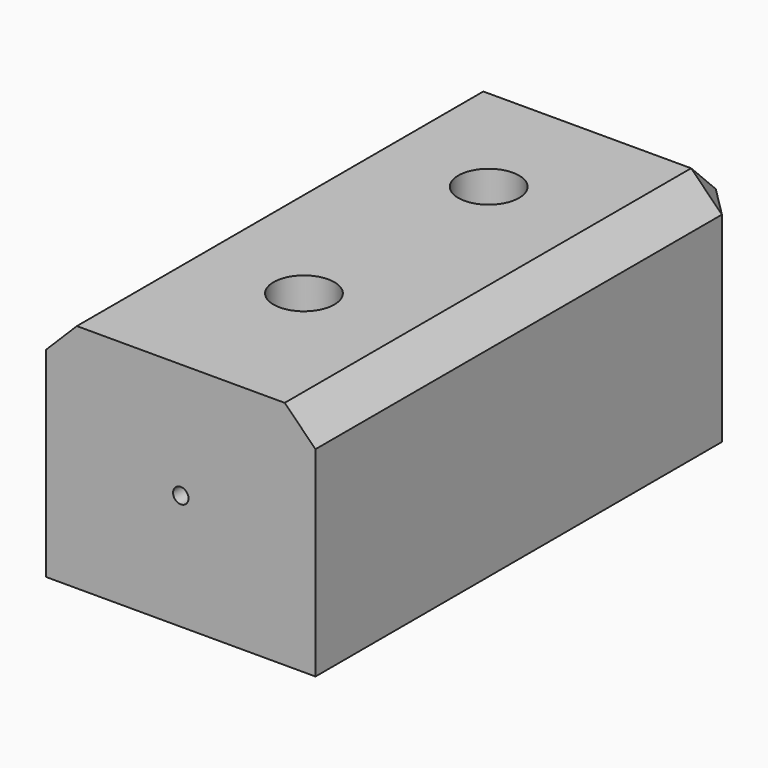
from build123d import *

# Parameters (mm, degrees)
F0_W     = 35
F0_H     = 70
F0_R     = 3.95
F1_DEPTH = 30
F2_SIZE  = 4
F3_R     = 1
F4_DEPTH = 25


with BuildPart() as f1:
    # F0 (on Top) → F1 (new body)
    with BuildSketch(Plane.XY):
        Rectangle(F0_W, F0_H)
        with Locations((0, -15)):
            Circle(F0_R, mode=Mode.SUBTRACT)
        with Locations((0, 15)):
            Circle(F0_R, mode=Mode.SUBTRACT)
    extrude(amount=F1_DEPTH)

    # F2
    f2_edges = [f1.edges().sort_by_distance(p)[0] for p in [
        (0, 35, 30),
        (17.5, 0, 30),
        (-17.5, 0, 30),
        (17.5, 35, 15),
        (-17.5, 35, 15),
    ]]
    chamfer(f2_edges, length=F2_SIZE)

    # F3 (on face) → F4 (cut)
    with BuildSketch(Plane.XZ.offset(35)):
        with Locations((0, 15)):
            Circle(F3_R)
    extrude(amount=-F4_DEPTH, mode=Mode.SUBTRACT)


solid = f1.part
